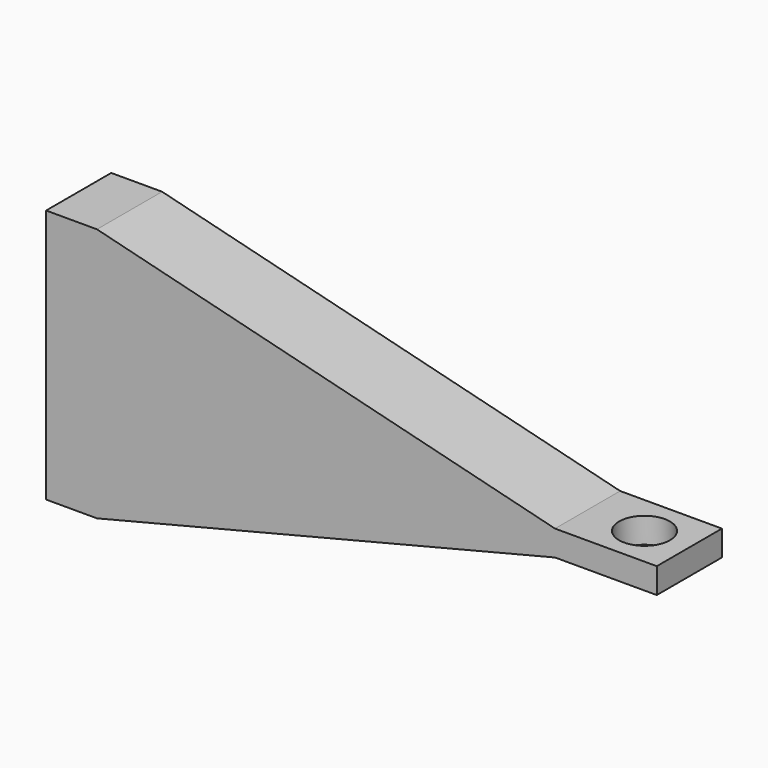
from build123d import *

# Parameters (mm, degrees)
F1_DEPTH = 5.08
F2_W     = 10.16
F2_H     = 3.175
F3_DEPTH = 12.7
F4_R     = 3.175
F5_DEPTH = 25.4


with BuildPart() as f1:
    # F0 (on Front) → F1 (new body, symmetric)
    with BuildSketch(Plane.XZ):
        Polygon((-34.925, -15.875), (-28.575, -15.875), (28.575, -1.5875), (28.575, 1.5875), (-28.575, 15.875), (-34.925, 15.875), align=None)
    extrude(amount=F1_DEPTH, both=True)

    # F2 (on face) → F3 (join)
    with BuildSketch(Plane.YZ.offset(28.575)):
        Rectangle(F2_W, F2_H)
    extrude(amount=F3_DEPTH)

    # F4 (on face) → F5 (cut)
    with BuildSketch(Plane.XY.offset(1.5875)):
        with Locations((35.682857, 0)):
            Circle(F4_R)
    extrude(amount=-F5_DEPTH, mode=Mode.SUBTRACT)


solid = f1.part
